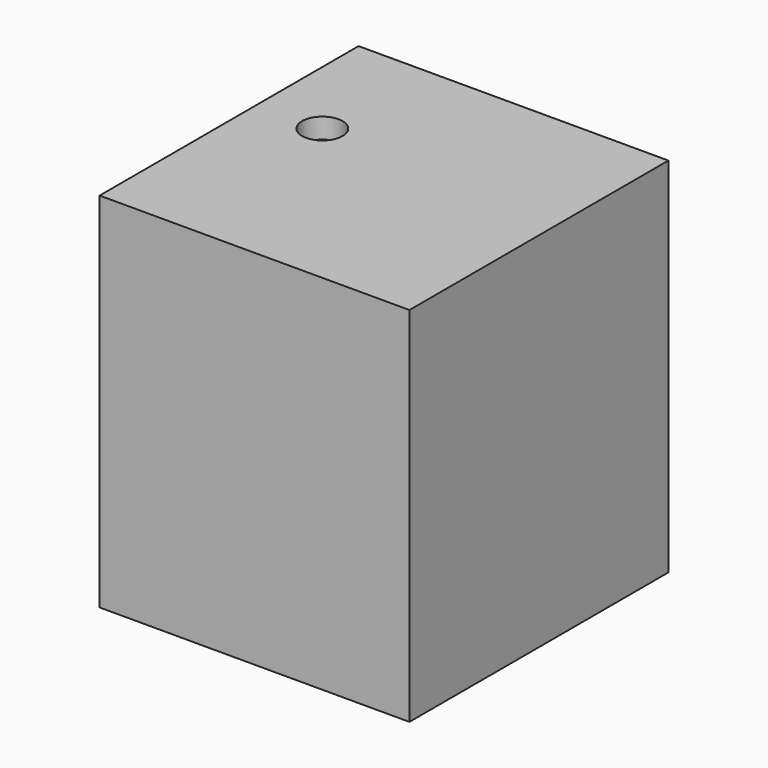
from build123d import *

# Parameters (mm, degrees)
F0_W           = 97.225771
F0_H           = 101.578414
F1_DEPTH       = 113.792
F3_D           = 6.35
F3_CBORE_D     = 12.7
F3_CBORE_DEPTH = 6.35


with BuildPart() as f1:
    # F0 (on Top) → F1 (new body)
    with BuildSketch(Plane.XY):
        with Locations((0.573047, 1.845401)):
            Rectangle(F0_W, F0_H)
    extrude(amount=F1_DEPTH)

    # F3 (through all)
    with Locations(Plane.XY.offset(113.792)):
        with Locations((-27.632849, 12.919624)):
            CounterBoreHole(F3_D / 2, F3_CBORE_D / 2, F3_CBORE_DEPTH)


solid = f1.part
